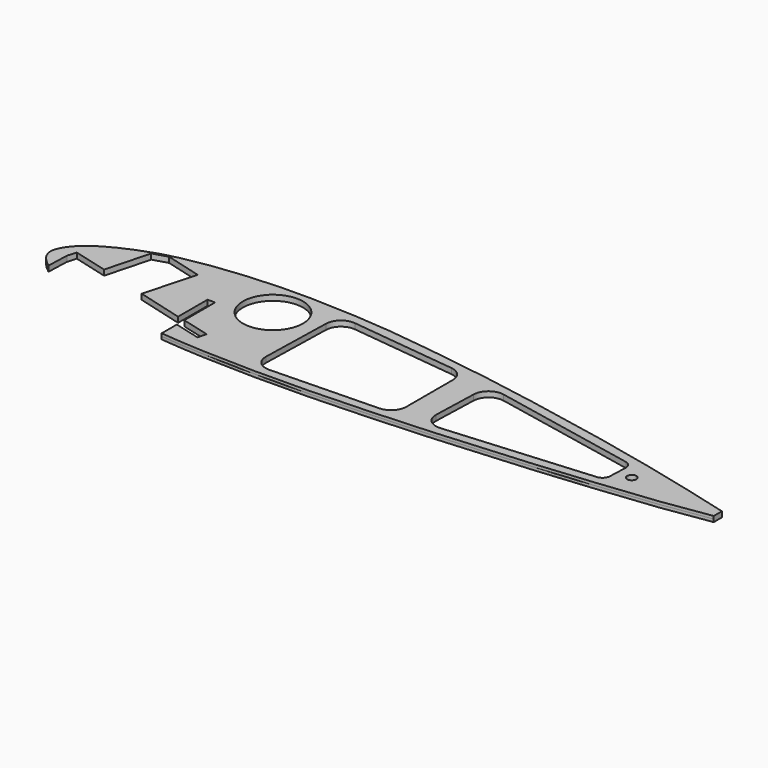
from build123d import *

# Parameters (mm, degrees)
F0_R     = 27.5238078993
F0_R_2   = 4.211439544
F1_DEPTH = 2.5


with BuildPart() as f1:
    # F0 (on Top) → F1 (new body, symmetric)
    with BuildSketch(Plane.XY):
        with BuildLine():
            Line((921.839594841, -803.9566278458), (922.5189089775, -783.6380600929))
            Line((922.5189089775, -783.6380600929), (924.9504833013, -775.4066950965))
            Line((924.9504833013, -775.4066950965), (956.714630127, -783.8306427002))
            Line((956.714630127, -783.8306427002), (967.4685001373, -743.2810664177))
            Line((967.4685001373, -743.2810664177), (980.7413664135, -739.274532222))
            Line((980.7413664135, -739.274532222), (1014.1057336456, -748.3348261978))
            Line((1014.1057336456, -748.3348261978), (1001.0999441147, -796.2284088135))
            Line((1001.0999441147, -796.2284088135), (1043.6798334122, -807.7912330627))
            Line((1043.6798334122, -807.7912330627), (1043.6798334122, -774.0077972412))
            Line((1043.6798334122, -774.0077972412), (1050.6081581116, -774.0077972412))
            Line((1050.6081581116, -774.0077972412), (1050.6081581116, -809.3167699515))
            Line((1050.6081581116, -809.3167699515), (1076.6754649612, -816.1663441717))
            Line((1076.6754649612, -816.1663441717), (1074.5738744736, -824.1643309593))
            Line((1074.5738744736, -824.1643309593), (1050.6081581116, -817.8669810295))
            Line((1050.6081581116, -817.8669810295), (1050.6081581116, -835.225880146))
            add(Edge.make_bspline(
                [(1536.0090732574, -809.4955086708), (1521.3046844804, -811.8503837841), (1492.8502540195, -816.4072974491), (1454.6279057321, -820.2264400729), (1415.6506154441, -824.5181321075), (1376.2124960082, -827.9007783413), (1339.717648442, -830.4606385398), (1298.0325739606, -833.9407627091), (1250.2366801459, -836.5851712655), (1197.4031822152, -838.8624524979), (1157.0765596937, -839.486141606), (1119.0838044783, -839.3065951278), (1078.4797154043, -837.7977380588), (1059.2875980931, -836.0267785731), (1050.6081581116, -835.225880146)],
                knots=[0, 0, 0, 0, 0.0868791295, 0.1681196129, 0.2502169473, 0.332616224, 0.411831993, 0.4961536248, 0.5877030917, 0.6832786493, 0.7664753253, 0.8475379541, 0.9310505894, 1, 1, 1, 1], degree=3))
            Line((1536.0090732574, -809.4955086708), (1536.0090732574, -800.1022338867))
            add(Edge.make_bspline(
                [(921.839594841, -803.9566278458), (918.7420678015, -801.4812777869), (912.5456093102, -796.5294553506), (906.586641718, -784.2075381309), (917.3822889539, -766.8004053339), (937.6604036264, -753.0938100764), (967.9199751984, -740.6459234387), (989.1591698116, -735.3405331043), (1021.5483100757, -729.6920633674), (1058.5076848806, -726.8112930884), (1092.3637220014, -725.4518994266), (1151.8067081715, -727.7221836053), (1200.7854715849, -733.0236190033), (1268.6917522008, -742.5167838056), (1318.6807545732, -751.2245868002), (1372.2066821508, -761.6196689629), (1424.8904283993, -772.2837256302), (1472.2267571656, -783.7017807514), (1508.0805616247, -792.5769240103), (1527.1066205316, -797.7034767921), (1536.0090732574, -800.1022338867)],
                knots=[0, 0, 0, 0, 0.0320388376, 0.0640922016, 0.1037003915, 0.1504946168, 0.2032649495, 0.2470737236, 0.3000159432, 0.3564232303, 0.4111121651, 0.4818577086, 0.5488233801, 0.625125541, 0.6921066972, 0.7603076724, 0.8290319583, 0.8941080788, 0.9504522809, 1, 1, 1, 1], degree=3))
        make_face()
        with BuildLine():
            Line((1131.5307500475, -816.9381027959), (1133.1666506269, -750.1013899632))
            ThreePointArc((1133.1666506269, -750.1013899632), (1137.9715577765, -739.8833021252), (1148.7550735474, -736.5348339081))
            Line((1148.7550735474, -736.5348339081), (1246.1209663697, -747.6833722246))
            ThreePointArc((1246.1209663697, -747.6833722246), (1254.975758261, -752.2730649373), (1258.5283517838, -761.5924907725))
            Line((1258.5283517838, -761.5924907725), (1258.5283517838, -814.7240639827))
            ThreePointArc((1258.5283517838, -814.7240639827), (1254.5548111686, -824.4949448133), (1244.889764326, -828.7193982401))
            Line((1244.889764326, -828.7193982401), (1145.8879709244, -831.2759995461))
            ThreePointArc((1145.8879709244, -831.2759995461), (1135.6337322965, -827.1868245868), (1131.5307500475, -816.9381027959))
        make_face(mode=Mode.SUBTRACT)
        with Locations((1092.6089286804, -760.2148652077)):
            Circle(F0_R, mode=Mode.SUBTRACT)
        with BuildLine():
            Line((1282.8490338689, -811.0056319639), (1284.1656519477, -769.6807142934))
            ThreePointArc((1284.1656519477, -769.6807142934), (1289.4639829167, -759.1536330859), (1300.9235582504, -756.4022910545))
            Line((1300.9235582504, -756.4022910545), (1434.5976299949, -783.3334497126))
            ThreePointArc((1434.5976299949, -783.3334497126), (1438.7162230665, -785.8668350621), (1440.2099118982, -790.4657201327))
            Line((1440.2099118982, -790.4657201327), (1439.5371675491, -807.8845143318))
            ThreePointArc((1439.5371675491, -807.8845143318), (1437.5931645642, -812.4609705461), (1433.1007740985, -814.5920564174))
            Line((1433.1007740985, -814.5920564174), (1297.958717077, -825.4068337364))
            ThreePointArc((1297.958717077, -825.4068337364), (1287.1828837322, -821.5856844812), (1282.8490338689, -811.0056319639))
        make_face(mode=Mode.SUBTRACT)
        with Locations((1453.0781507492, -799.7033596039)):
            Circle(F0_R_2, mode=Mode.SUBTRACT)
    extrude(amount=F1_DEPTH, both=True)


solid = f1.part
